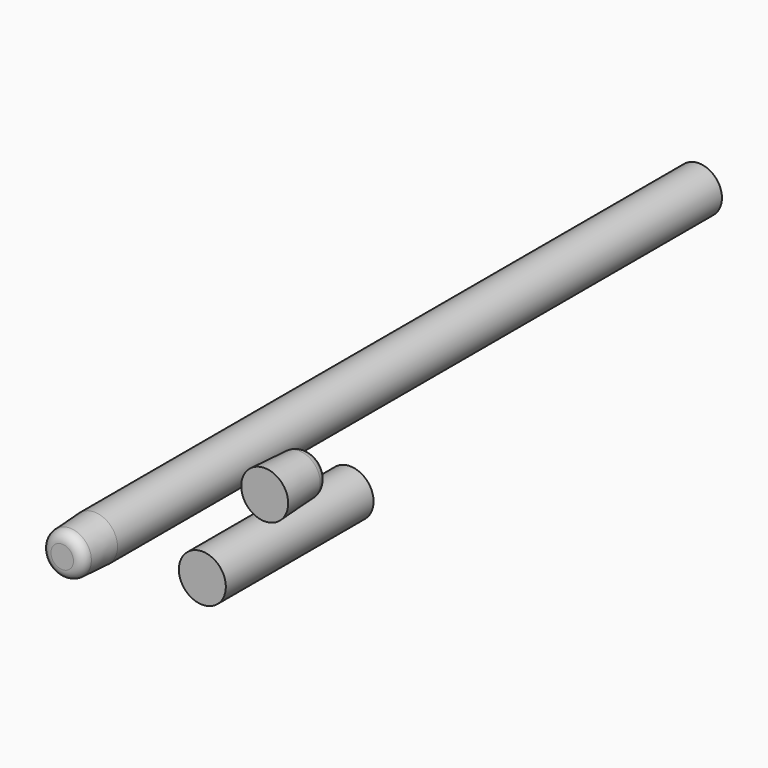
from build123d import *

# Parameters (mm, degrees)
F0_R     = 11.4793323505
F1_DEPTH = 376.174
F2_R     = 11.4793323505
F3_DEPTH = 20.066
F3_TAPER = 3
F4_R     = 5.08
F0_R_2   = 11.69289
F5_DEPTH = 91.948
F6_R     = 11.69289
F7_DEPTH = 26.162
F7_TAPER = 3
F8_R     = 5.08


with BuildPart() as f1:
    # F0 (on Front) → F1 (new body)
    with BuildSketch(Plane.XZ):
        with Locations((-37.8994987326, 12.6611953601)):
            Circle(F0_R)
    extrude(amount=-F1_DEPTH)

    # F2 (on face) → F3 (join)
    with BuildSketch(Plane.XZ):
        with Locations((-37.8994987326, 12.6611953601)):
            Circle(F2_R)
    extrude(amount=F3_DEPTH, taper=F3_TAPER)

    # F4
    f4_edges = [f1.edges().sort_by_distance(p)[0] for p in [
        (-48.327217, -20.066, 12.661195),
    ]]
    fillet(f4_edges, radius=F4_R)


with BuildPart() as f5:
    # F0 (on Front) → F5 (new body)
    with BuildSketch(Plane.XZ):
        with Locations((15.8309266554, 12.6611953601)):
            Circle(F0_R_2)
    extrude(amount=-F5_DEPTH)


with BuildPart() as f7:
    # F6 (on Front) → F7 (new body)
    with BuildSketch(Plane.XZ):
        with Locations((46.8732975423, 59.3126304448)):
            Circle(F6_R)
    extrude(amount=-F7_DEPTH, taper=F7_TAPER)

    # F8
    f8_edges = [f7.edges().sort_by_distance(p)[0] for p in [
        (36.5515, 26.162, 59.31263),
    ]]
    fillet(f8_edges, radius=F8_R)


solid = Compound([f1.part, f5.part, f7.part])
